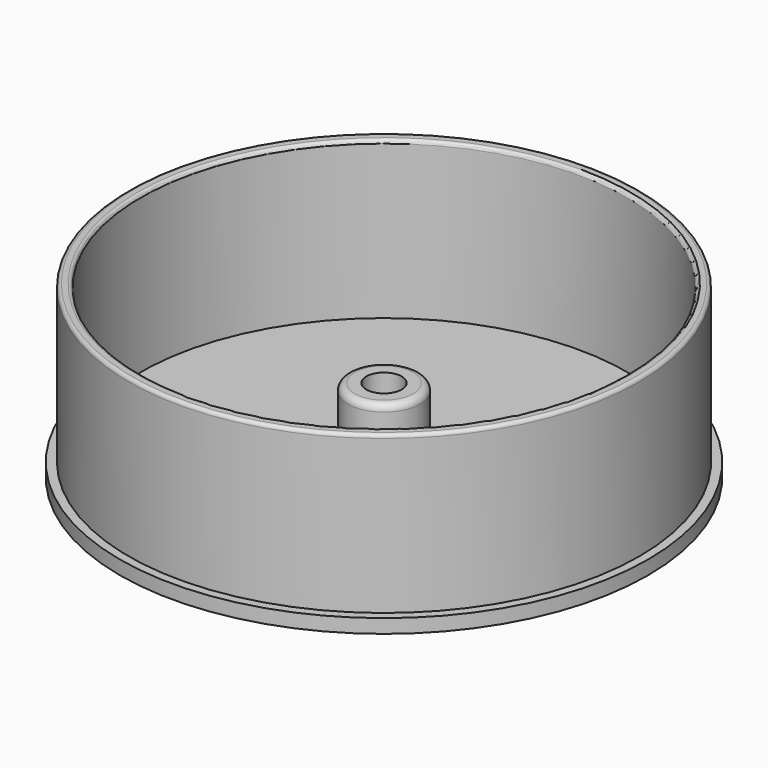
from build123d import *

# Parameters (mm, degrees)
SKETCH_R      = 38
PAD_DEPTH     = 2
SKETCH001_R   = 36.75
SKETCH001_R_2 = 35
PAD001_DEPTH  = 22.6
SKETCH002_R   = 5.191137
SKETCH002_R_2 = 2.55
PAD002_DEPTH  = 10
FILLET_R      = 1
FILLET001_R   = 0.5


with BuildPart() as part:
    # Sketch → Pad (new body)
    with BuildSketch(Plane.XY):
        Circle(SKETCH_R)
    extrude(amount=PAD_DEPTH)

    # Sketch001 → Pad001 (new body)
    with BuildSketch(Plane.XY.offset(2)):
        Circle(SKETCH001_R)
        Circle(SKETCH001_R_2, mode=Mode.SUBTRACT)
    extrude(amount=PAD001_DEPTH)

    # Sketch002 → Pad002 (new body)
    with BuildSketch(Plane.XY.offset(2)):
        Circle(SKETCH002_R)
        Circle(SKETCH002_R_2, mode=Mode.SUBTRACT)
    extrude(amount=PAD002_DEPTH)

    # Fillet
    fillet_edges = [part.edges().sort_by_distance(p)[0] for p in [
        (5.191137, 0, 7),
        (-5.191137, 0, 12),
    ]]
    fillet(fillet_edges, radius=FILLET_R)

    # Fillet001
    fillet001_edges = [part.edges().sort_by_distance(p)[0] for p in [
        (-36.75, 0, 24.6),
        (-35, 0, 24.6),
    ]]
    fillet(fillet001_edges, radius=FILLET001_R)


solid = part.part
